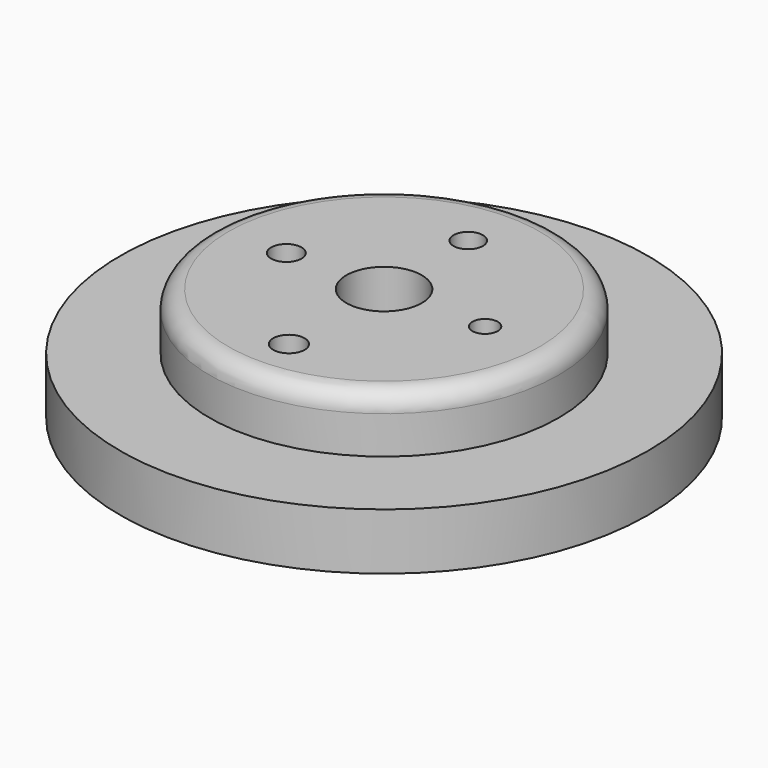
from build123d import *

# Parameters (mm, degrees)
F0_R     = 14
F1_DEPTH = 3
F2_R     = 9.262684
F3_DEPTH = 3
F4_R     = 2
F5_DEPTH = 30
F6_R     = 0.780538
F6_R_2   = 0.67232
F6_R_3   = 0.833775
F6_R_4   = 0.807745
F7_DEPTH = 25.4
F8_R     = 1


with BuildPart() as f1:
    # F0 (on Top) → F1 (new body)
    with BuildSketch(Plane.XY):
        Circle(F0_R)
    extrude(amount=F1_DEPTH)

    # F2 (on face) → F3 (join)
    with BuildSketch(Plane.XY.offset(3)):
        Circle(F2_R)
    extrude(amount=F3_DEPTH)

    # F4 (on face) → F5 (cut)
    with BuildSketch(Plane.XY.offset(6)):
        Circle(F4_R)
    extrude(amount=-F5_DEPTH, mode=Mode.SUBTRACT)

    # F6 (on face) → F7 (cut)
    with BuildSketch(Plane.XY.offset(6)):
        with Locations((0, 5.578444)):
            Circle(F6_R)
        with Locations((5.356538, 0)):
            Circle(F6_R_2)
        with Locations((0, -6.308428)):
            Circle(F6_R_3)
        with Locations((-5.185302, 0)):
            Circle(F6_R_4)
    extrude(amount=-F7_DEPTH, mode=Mode.SUBTRACT)

    # F8
    f8_edges = [f1.edges().sort_by_distance(p)[0] for p in [
        (-9.262684, 0, 6),
    ]]
    fillet(f8_edges, radius=F8_R)


solid = f1.part
